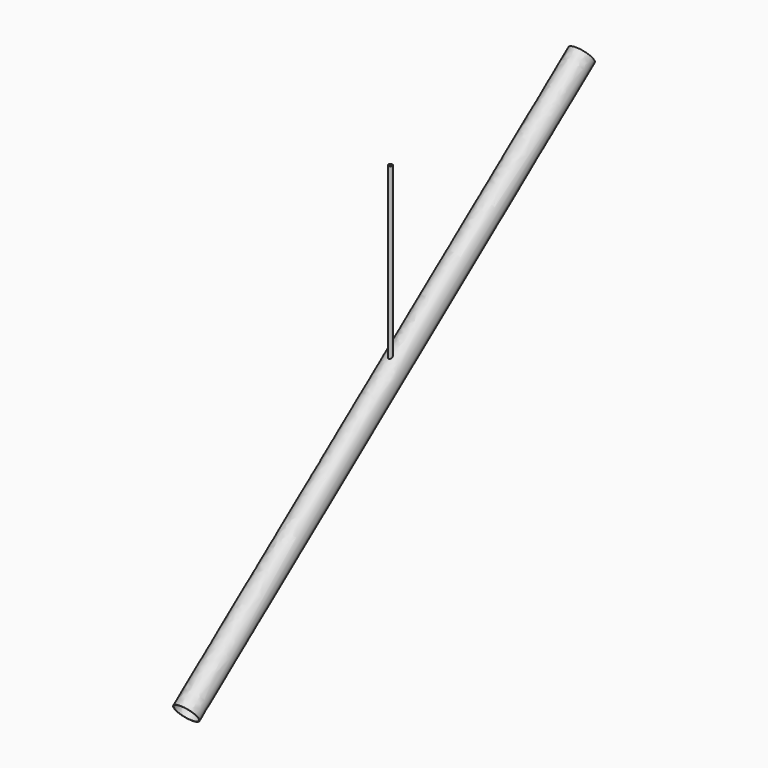
from build123d import *

# Parameters (mm, degrees)
F2_R   = 38.1
F2_R_2 = 36.449
F6_R   = 6.35
F6_R_2 = 5.461


with BuildPart() as f3:
    # F3: sweep along a path in F0
    with BuildLine(Plane.YZ) as f3_path:
        Line((0, 0), (-1574.8, -1207.164067))
    # F2 (on face) → F3 (sweep)
    with BuildSketch(Plane(origin=(0, 0, 0), x_dir=(1, 0, 0), z_dir=(0, -0.793651, -0.608374))):
        Circle(F2_R)
        Circle(F2_R_2, mode=Mode.SUBTRACT)
    sweep(path=f3_path.line)

    # F7: sweep along a path in F4
    with BuildLine(Plane.YZ) as f7_path:
        Line((-762, 0), (-762, -584.2))
    # F6 (on face) → F7 (sweep)
    with BuildSketch(Plane(origin=(0, 0, 0), x_dir=(1, 0, 0), z_dir=(0, 0, -1))):
        with Locations((0, 762)):
            Circle(F6_R)
        with Locations((0, 762)):
            Circle(F6_R_2, mode=Mode.SUBTRACT)
    sweep(path=f7_path.line)


solid = f3.part
